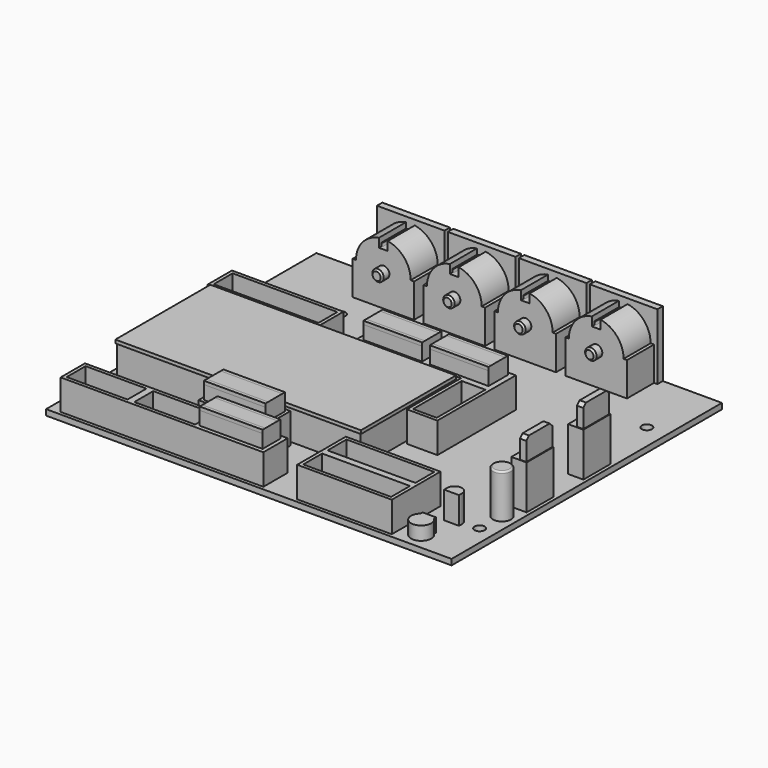
from build123d import *

# Parameters (mm, degrees)
SKETCH019_W      = 17.388069
SKETCH019_H      = 7.154667
SKETCH019_W_2    = 17.38807
SKETCH019_W_3    = 18.223012
SKETCH019_H_2    = 7.226367
SKETCH019_W_4    = 18.615747
SKETCH019_H_3    = 6.597988
EXTRUDE002_DEPTH = 5
EXTRUDE007_DEPTH = 4
EXTRUDE006_DEPTH = 8
SKETCH_R         = 2.7
EXTRUDE005_DEPTH = 13
FILLET001_R      = 0.5
SKETCH021_W      = 1.854004
SKETCH021_H      = 9.514252
SKETCH021_H_2    = 9.651727
EXTRUDE004_DEPTH = 6.5
CHAMFER002_SIZE  = 1
SKETCH020_W      = 4.5
SKETCH020_H      = 10
EXTRUDE003_DEPTH = 13
EXTRUDE001_DEPTH = 5
FILLET_R         = 1
SKETCH018_W      = 72.670885
SKETCH018_H      = 35.126183
PAD014_DEPTH     = 1
SKETCH017_W      = 33
SKETCH017_H      = 9
SKETCH017_W_2    = 31
SKETCH017_H_2    = 7
SKETCH017_W_3    = 7
SKETCH017_H_3    = 18
SKETCH017_W_4    = 60
SKETCH017_W_5    = 18
SKETCH017_W_6    = 20
SKETCH017_W_7    = 28
SKETCH017_W_8    = 26
SKETCH017_W_9    = 72
SKETCH017_H_4    = 34.6
EXTRUDE_DEPTH    = 9
SKETCH013_W      = 20
SKETCH013_H      = 2
PAD011_DEPTH     = 19.5
PAD012_DEPTH     = 10
SKETCH015_R      = 7
SKETCH015_R_2    = 6
POCKET002_DEPTH  = 11
SKETCH016_R      = 1.7
PAD013_DEPTH     = 2.6
CHAMFER001_SIZE  = 0.5
ARRAY_X_COUNT    = 4
ARRAY_X_PITCH    = 21
SKETCH011_W      = 120
SKETCH011_H      = 100
PAD010_DEPTH     = 1.7
SKETCH012_R      = 1.5
POCKET001_DEPTH  = 5


with BuildPart() as extrude002:
    # Sketch019 (on DatumPlane) → Extrude002 (new body)
    with BuildSketch(Plane.XY.offset(9)):
        with Locations((-4.885375, 12.934658)):
            Rectangle(SKETCH019_W, SKETCH019_H)
        with Locations((14.747851, 12.934658)):
            Rectangle(SKETCH019_W_2, SKETCH019_H)
        with Locations((-14.492207, -33.50832)):
            Rectangle(SKETCH019_W_3, SKETCH019_H_2)
        with Locations((-6.990924, -44.504964)):
            Rectangle(SKETCH019_W_4, SKETCH019_H_3)
    extrude(amount=EXTRUDE002_DEPTH)


with BuildPart() as obj1:
    # Sketch023 (on Face11 of Fusion006) → Extrude007 (new body)
    with BuildSketch(Plane.XY):
        with BuildLine():
            Line((45, -42), (49, -42))
            Line((49, -42), (49, -42.763932))
            ThreePointArc((45, -42.763932), (47, -48), (49, -42.763932))
            Line((45, -42.763932), (45, -42))
        make_face()
    extrude(amount=EXTRUDE007_DEPTH)


with BuildPart() as transistor:
    # Sketch022 (on Face11 of Fusion006) → Extrude006 (new body)
    with BuildSketch(Plane.XY):
        with BuildLine():
            Line((51, -36), (46.6, -36))
            Line((46.6, -36), (46.6, -34.9))
            ThreePointArc((51, -34.9), (48.8, -32.7), (46.6, -34.9))
            Line((51, -34.9), (51, -36))
        make_face()
    extrude(amount=EXTRUDE006_DEPTH)


with BuildPart() as obj2:
    # Sketch (on Face11 of Fusion005) → Extrude005 (new body)
    with BuildSketch(Plane.XY):
        with Locations((55.705166, -26)):
            Circle(SKETCH_R)
    extrude(amount=EXTRUDE005_DEPTH)

    # Fillet001
    fillet001_edges = [obj2.edges().sort_by_distance(p)[0] for p in [
        (53.005166, -26, 13),
    ]]
    fillet(fillet001_edges, radius=FILLET001_R)


with BuildPart() as obj3:
    # Sketch021 (on Face6 of Extrude003) → Extrude004 (new body)
    with BuildSketch(Plane.XY.offset(13)):
        with Locations((57.848351, 5.009895)):
            Rectangle(SKETCH021_W, SKETCH021_H)
        with Locations((57.848351, -16.021686)):
            Rectangle(SKETCH021_W, SKETCH021_H_2)
    extrude(amount=EXTRUDE004_DEPTH)

    # Chamfer002
    chamfer002_edges = [obj3.edges().sort_by_distance(p)[0] for p in [
        (57.848351, -11.195822, 19.5),
        (57.848351, -20.847549, 19.5),
        (57.848351, 9.767021, 19.5),
        (57.848351, 0.252769, 19.5),
    ]]
    chamfer(chamfer002_edges, length=CHAMFER002_SIZE)


with BuildPart() as obj4:
    # Sketch020 → Extrude003 (new body)
    with BuildSketch(Plane.XY):
        with Locations((56.75, 5)):
            Rectangle(SKETCH020_W, SKETCH020_H)
        with Locations((56.75, -16)):
            Rectangle(SKETCH020_W, SKETCH020_H)
    extrude(amount=EXTRUDE003_DEPTH)


with BuildPart() as sockets_gray:
    # Sketch019 (on DatumPlane) → Extrude001 (new body)
    with BuildSketch(Plane.XY.offset(9)):
        with Locations((-4.885375, 12.934658)):
            Rectangle(SKETCH019_W, SKETCH019_H)
        with Locations((14.747851, 12.934658)):
            Rectangle(SKETCH019_W_2, SKETCH019_H)
        with Locations((-14.492207, -33.50832)):
            Rectangle(SKETCH019_W_3, SKETCH019_H_2)
        with Locations((-6.990924, -44.504964)):
            Rectangle(SKETCH019_W_4, SKETCH019_H_3)
    extrude(amount=EXTRUDE001_DEPTH)

    # Fillet
    fillet_edges = [sockets_gray.edges().sort_by_distance(p)[0] for p in [
        (-6.990925, -41.20597, 14),
        (-6.990925, -47.803958, 14),
        (-14.492207, -29.895137, 14),
        (-14.492207, -37.121504, 14),
        (-4.885376, 16.511992, 14),
        (-4.885376, 9.357325, 14),
        (14.747851, 16.511992, 14),
        (14.747851, 9.357325, 14),
    ]]
    fillet(fillet_edges, radius=FILLET_R)


with BuildPart() as obj5:
    # Sketch018 (on DatumPlane) → Pad014 (new body)
    with BuildSketch(Plane.XY.offset(9)):
        with Locations((-20.911435, -10.25264)):
            Rectangle(SKETCH018_W, SKETCH018_H)
    extrude(amount=PAD014_DEPTH)


with BuildPart() as extrude_body:
    # Sketch017 → Extrude (new body)
    with BuildSketch(Plane.XY):
        with Locations((-42.5, 13)):
            Rectangle(SKETCH017_W, SKETCH017_H)
        with Locations((-42.5, 13)):
            Rectangle(SKETCH017_W_2, SKETCH017_H_2, mode=Mode.SUBTRACT)
        Polygon((-15, 8.5), (-15, 17.5), (25, 17.5), (25, -11.5), (16, -11.5), (16, 8.5), align=None)
        with Locations((20.5, -1.5)):
            Rectangle(SKETCH017_W_3, SKETCH017_H_3, mode=Mode.SUBTRACT)
        with Locations((-26.5, -44.5)):
            Rectangle(SKETCH017_W_4, SKETCH017_H)
        with Locations((-46.5, -44.5)):
            Rectangle(SKETCH017_W_5, SKETCH017_H_2, mode=Mode.SUBTRACT)
        with Locations((-26.5, -44.5)):
            Rectangle(SKETCH017_W_5, SKETCH017_H_2, mode=Mode.SUBTRACT)
        with Locations((-14.5, -33.5)):
            Rectangle(SKETCH017_W_6, SKETCH017_H)
        with Locations((27.5, -40)):
            Rectangle(SKETCH017_W_7, SKETCH017_H_3)
        with Locations((27.5, -35.5)):
            Rectangle(SKETCH017_W_8, SKETCH017_H_2, mode=Mode.SUBTRACT)
        with Locations((27.5, -44.5)):
            Rectangle(SKETCH017_W_8, SKETCH017_H_2, mode=Mode.SUBTRACT)
        with Locations((-21, -10.2)):
            Rectangle(SKETCH017_W_9, SKETCH017_H_4)
    extrude(amount=EXTRUDE_DEPTH)


with BuildPart() as obj6:
    # Sketch013 → Pad011 (new body)
    with BuildSketch(Plane.XY):
        with Locations((32.5, 49)):
            Rectangle(SKETCH013_W, SKETCH013_H)
    extrude(amount=PAD011_DEPTH)

    # Sketch014 (on Face3 of Pad011) → Pad012 (join)
    with BuildSketch(Plane.XZ.offset(-48)):
        with BuildLine():
            Line((41.5, 0), (23.3, 0))
            Line((23.3, 0), (23.3, 10.005002))
            Line((23.3, 10.005002), (24.3, 10.005002))
            ThreePointArc((31.1, 18), (26.229911, 15.252858), (24.3, 10.005002))
            Line((31.1, 18), (31.1, 15.4))
            Line((31.1, 15.4), (33.7, 15.4))
            Line((33.7, 15.4), (33.7, 18))
            ThreePointArc((40.5, 10.005002), (38.570089, 15.252858), (33.7, 18))
            Line((40.5, 10.005002), (41.5, 10.005002))
            Line((41.5, 10.005002), (41.5, 0))
        make_face()
    extrude(amount=PAD012_DEPTH)

    # Sketch015 (on Face1 of Pad012) → Pocket002 (cut)
    with BuildSketch(Plane(origin=(0, 50, 0), x_dir=(-1, 0, 0), z_dir=(0, 1, 0))):
        with Locations((-32.5, 9.5)):
            Circle(SKETCH015_R)
        with Locations((-32.5, 9.5)):
            Circle(SKETCH015_R_2, mode=Mode.SUBTRACT)
    extrude(amount=-POCKET002_DEPTH, mode=Mode.SUBTRACT)

    # Sketch016 (on Face18 of Pocket002) → Pad013 (join)
    with BuildSketch(Plane.XZ.offset(-38)):
        with Locations((32.5, 9.5)):
            Circle(SKETCH016_R)
    extrude(amount=PAD013_DEPTH)

    # Chamfer001
    chamfer001_edges = [obj6.edges().sort_by_distance(p)[0] for p in [
        (30.8, 35.4, 9.5),
    ]]
    chamfer(chamfer001_edges, length=CHAMFER001_SIZE)

    # Array X: obj6 ×4


with BuildPart() as obj6_1:
    add(obj6.part)
    with Locations(*[(-i * ARRAY_X_PITCH, 0, 0) for i in range(1, ARRAY_X_COUNT)]):
        add(obj6.part)


with BuildPart() as fusion008:
    # Sketch011 → Pad010 (new body)
    with BuildSketch(Plane.XY):
        Rectangle(SKETCH011_W, SKETCH011_H)
    extrude(amount=-PAD010_DEPTH)

    # Sketch012 → Pocket001 (cut)
    with BuildSketch(Plane.XY):
        with Locations((54.1, 29.6)):
            Circle(SKETCH012_R)
        with Locations((-36.55, 29.6)):
            Circle(SKETCH012_R)
        with Locations((-56, -34)):
            Circle(SKETCH012_R)
        with Locations((55.5, -34)):
            Circle(SKETCH012_R)
    extrude(amount=-POCKET001_DEPTH, mode=Mode.SUBTRACT)

    # Fusion: union obj6
    add(obj6_1.part)

    # Fusion001: union Extrude body
    add(extrude_body.part)

    # Fusion002: union obj5
    add(obj5.part)

    # Fusion003: union sockets-gray
    add(sockets_gray.part)

    # Fusion004: union obj4
    add(obj4.part)

    # Fusion005: union obj3
    add(obj3.part)

    # Fusion006: union obj2
    add(obj2.part)

    # Fusion007: union transistor
    add(transistor.part)

    # Fusion008: union obj1
    add(obj1.part)


solid = Compound([extrude002.part, fusion008.part])
